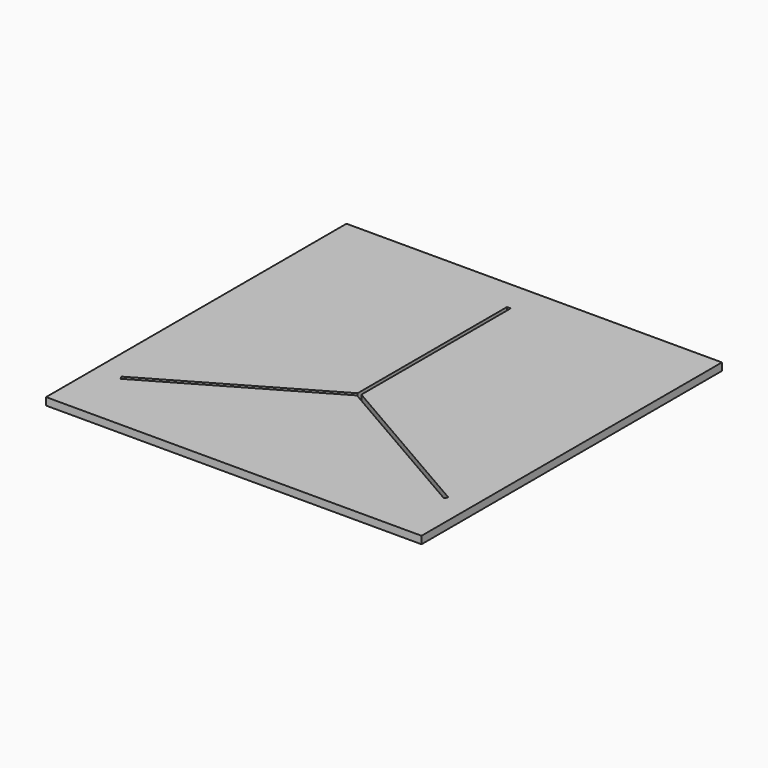
from build123d import *

# Parameters (mm, degrees)
F0_W     = 100
F0_H     = 100
F1_DEPTH = 2


with BuildPart() as f1:
    # F0 (on Top) → F1 (new body)
    with BuildSketch(Plane.XY):
        with Locations((-0.007899031, 8.455215469)):
            Rectangle(F0_W, F0_H)
        Polygon((-0.5, 50), (0, 50), (0.5, 50), (0.5, 0.2886751346), (43.5512701892, -24.5669872981), (43.3012701892, -25), (43.0512701892, -25.4330127019), (0, -0.5773502692), (-43.0512701892, -25.4330127019), (-43.3012701892, -25), (-43.5512701892, -24.5669872981), (-0.5, 0.2886751346), align=None, mode=Mode.SUBTRACT)
    extrude(amount=F1_DEPTH)


solid = f1.part
